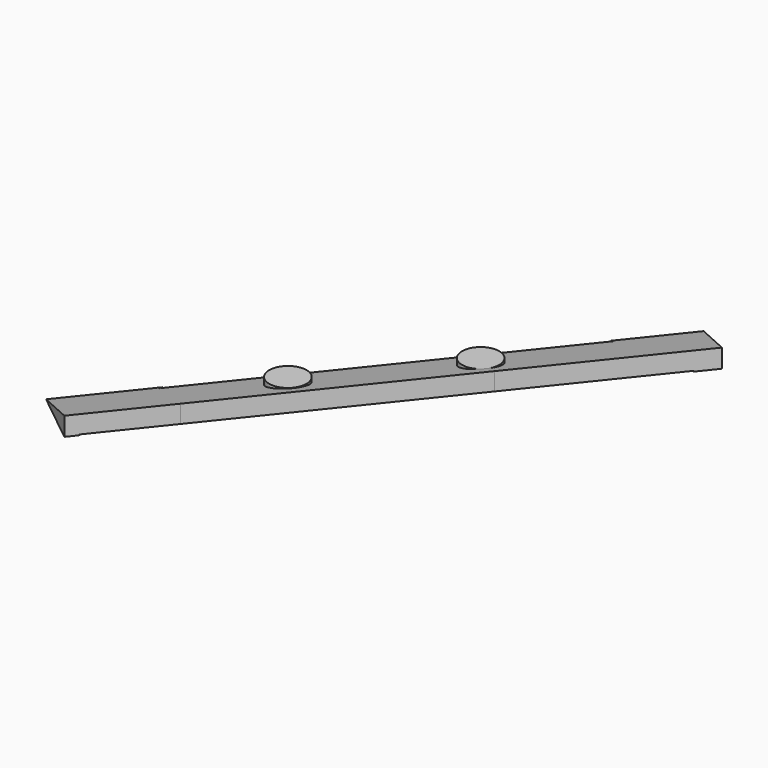
from build123d import *

# Parameters (mm, degrees)
F1_DEPTH = 10
F2_DEPTH = 0.4
F4_DEPTH = 319.7
F5_R     = 10
F6_DEPTH = 8.1
F7_DEPTH = 1.1


with BuildPart() as f1:
    # F0 (on Top) → F1 (new body)
    with BuildSketch(Plane.XY):
        Polygon((-118.766080561, 367.3347540892), (-143.7718247791, 336.1143640196), (-98.9293357238, 336.1143640196), (-91.4482392501, 345.4547278984), align=None)
        Polygon((-98.9293357238, 336.1143640196), (-143.7718247791, 336.1143640196), (-179.8142472891, 291.1143640196), (-152.4964059782, 269.2343378288), align=None)
        Polygon((-152.4964059782, 269.2343378288), (-179.8142472891, 291.1143640196), (-236.384913462, 220.4842620314), (-209.0670721511, 198.6042358405), align=None)
        Polygon((-264.2086340252, 129.7584116274), (-264.2086340252, 185.7455475346), (-295.4658142978, 146.7200599476), (-268.1479729869, 124.8400337568), align=None)
        Polygon((-236.8907927142, 163.8655213438), (-264.2086340252, 185.7455475346), (-264.2086340252, 129.7584116274), align=None)
        Polygon((-236.384913462, 220.4842620314), (-264.2086340252, 185.7455475346), (-236.8907927142, 163.8655213438), (-209.0670721511, 198.6042358405), align=None)
    extrude(amount=F1_DEPTH)

    # F0 (on Top) + F1_face (on face) → F2 (cut)
    with BuildSketch(Plane.XY):
        Polygon((-98.9293357238, 336.1143640196), (-143.7718247791, 336.1143640196), (-179.8142472891, 291.1143640196), (-152.4964059782, 269.2343378288), align=None)
        Polygon((-152.4964059782, 269.2343378288), (-179.8142472891, 291.1143640196), (-236.384913462, 220.4842620314), (-209.0670721511, 198.6042358405), align=None)
        Polygon((-236.8907927142, 163.8655213438), (-264.2086340252, 185.7455475346), (-264.2086340252, 129.7584116274), align=None)
        Polygon((-236.384913462, 220.4842620314), (-264.2086340252, 185.7455475346), (-236.8907927142, 163.8655213438), (-209.0670721511, 198.6042358405), align=None)
    with BuildSketch(Plane(origin=(-193.4570267739, 246.087393923, 10), x_dir=(1, 0, 0), z_dir=(0, 0, 1))):
        Polygon((74.6909462129, 121.2473601662), (-102.0087875238, -99.3673339754), (-74.6909462129, -121.2473601662), (102.0087875238, 99.3673339754), align=None)
    extrude(amount=F2_DEPTH, mode=Mode.SUBTRACT)

    # F3 (on face) → F4 (cut)
    with BuildSketch(Plane(origin=(-43.8801592677, -54.7856395198, 0), x_dir=(0.7805097517, -0.6251436055, 0), z_dir=(-0.6251436055, -0.7805097517, 0))):
        Polygon((-322.3350566332, 0), (-287.3350566332, 10), (-322.3350566332, 10), align=None)
        Polygon((-287.3350566332, 10), (-290.9218451271, 22.5537597288), (-325.9218451271, 12.5537597288), (-322.3350566332, 0), (-322.3350566332, 10), align=None)
    extrude(amount=-F4_DEPTH, mode=Mode.SUBTRACT)

    # F5 (on Top) → F6 (join)
    with BuildSketch(Plane.XY):
        with Locations((-219.2109416958, 213.7656019243)):
            Circle(F5_R)
        with Locations((-166.8104226756, 277.7009841669)):
            Circle(F5_R)
    extrude(amount=F6_DEPTH)

    # F5 (on Top) → F7 (cut)
    with BuildSketch(Plane.XY):
        with Locations((-219.2109416958, 213.7656019243)):
            Circle(F5_R)
        with Locations((-166.8104226756, 277.7009841669)):
            Circle(F5_R)
    extrude(amount=F7_DEPTH, mode=Mode.SUBTRACT)


solid = f1.part
